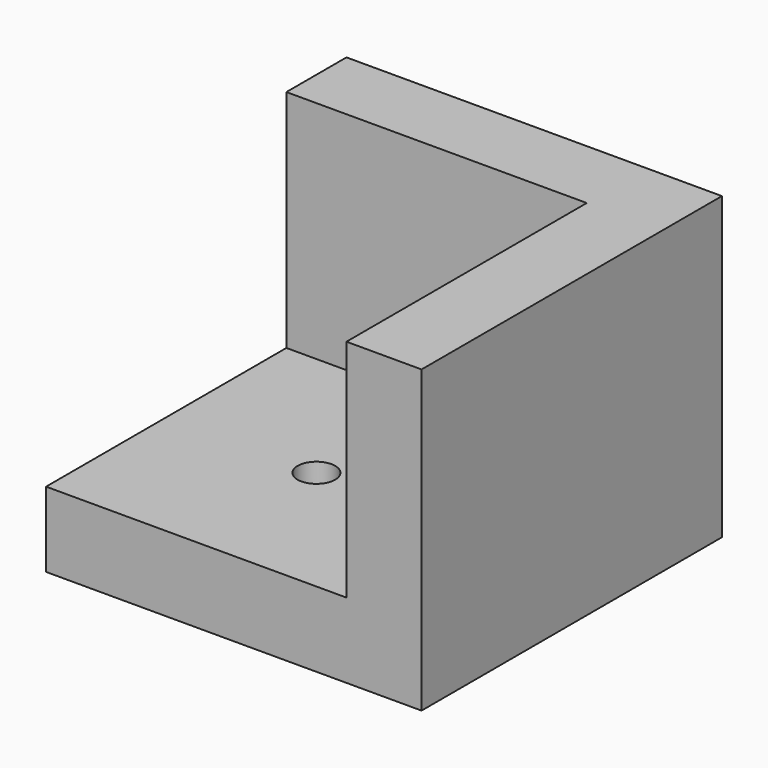
from build123d import *

# Parameters (mm, degrees)
F0_W     = 31.75
F0_H     = 31.75
F1_DEPTH = 25.4
F2_W     = 25.4
F2_H     = 25.4
F3_DEPTH = 19.05
F5_D     = 3.175


with BuildPart() as f1:
    # F0 (on Top) → F1 (new body)
    with BuildSketch(Plane.XY):
        with Locations((15.875, 15.875)):
            Rectangle(F0_W, F0_H)
    extrude(amount=F1_DEPTH)

    # F2 (on face) → F3 (cut)
    with BuildSketch(Plane.XY.offset(25.4)):
        with Locations((12.7, 12.7)):
            Rectangle(F2_W, F2_H)
    extrude(amount=-F3_DEPTH, mode=Mode.SUBTRACT)

    # F5 (through all)
    with Locations(Plane.XY.offset(6.35)):
        with Locations((12.7, 12.7)):
            Hole(F5_D / 2)


solid = f1.part
